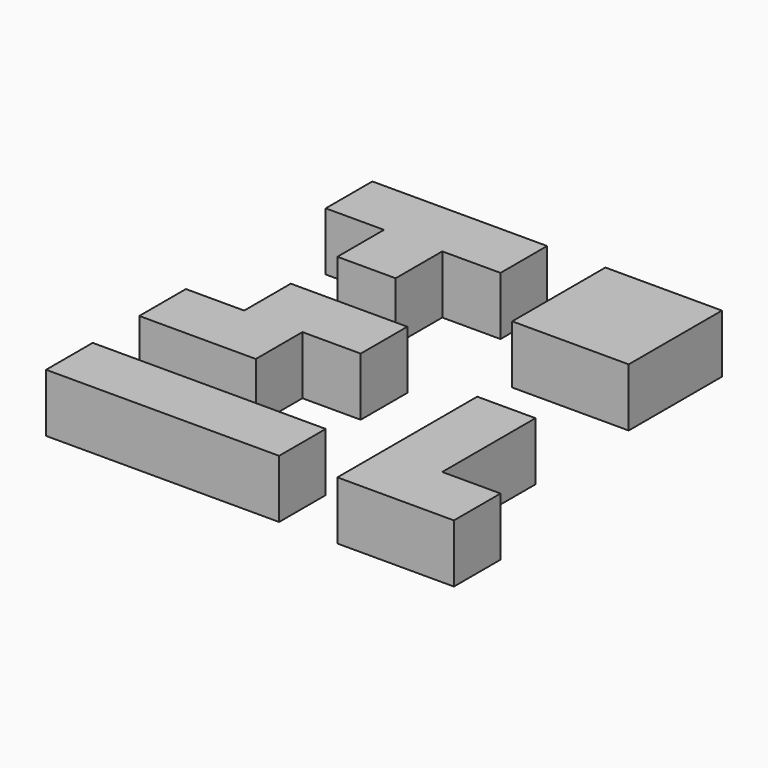
from build123d import *

# Parameters (mm, degrees)
BOX_W        = 40
BOX_H        = 10
BOX_DEPTH    = 10
BOX002_W     = 10
BOX002_H     = 10
BOX002_DEPTH = 10
BOX001_W     = 30
BOX001_H     = 10
BOX001_DEPTH = 10
BOX003_W     = 20
BOX003_H     = 20
BOX003_DEPTH = 10
BOX005_W     = 10
BOX005_H     = 10
BOX005_DEPTH = 10
BOX004_W     = 10
BOX004_H     = 30
BOX004_DEPTH = 10
BOX007_W     = 20
BOX007_H     = 10
BOX007_DEPTH = 10
BOX006_W     = 20
BOX006_H     = 10
BOX006_DEPTH = 10


with BuildPart() as box:
    # Box → Box (new body)
    with BuildSketch(Plane(origin=(0, -20, 0), x_dir=(1, 0, 0), z_dir=(0, 0, 1))):
        with Locations((20, 5)):
            Rectangle(BOX_W, BOX_H)
    extrude(amount=BOX_DEPTH)


with BuildPart() as box002:
    # Box002 → Box002 (new body)
    with BuildSketch(Plane(origin=(10, -10, 0), x_dir=(1, 0, 0), z_dir=(0, 0, 1))):
        with Locations((5, 5)):
            Rectangle(BOX002_W, BOX002_H)
    extrude(amount=BOX002_DEPTH)


with BuildPart() as fusion:
    # Box001 → Box001 (new body)
    with BuildSketch(Plane.XY):
        with Locations((15, 5)):
            Rectangle(BOX001_W, BOX001_H)
    extrude(amount=BOX001_DEPTH)

    # Fusion: union Box002
    add(box002.part)


with BuildPart() as fusion_1:
    # Fusion placement: moved
    add(fusion.part.moved(Location((0, 40, 0))))


with BuildPart() as box003:
    # Box003 → Box003 (new body)
    with BuildSketch(Plane(origin=(40, 30, 0), x_dir=(1, 0, 0), z_dir=(0, 0, 1))):
        with Locations((10, 10)):
            Rectangle(BOX003_W, BOX003_H)
    extrude(amount=BOX003_DEPTH)


with BuildPart() as box005:
    # Box005 → Box005 (new body)
    with BuildSketch(Plane(origin=(10, 0, 0), x_dir=(1, 0, 0), z_dir=(0, 0, 1))):
        with Locations((5, 5)):
            Rectangle(BOX005_W, BOX005_H)
    extrude(amount=BOX005_DEPTH)


with BuildPart() as fusion001:
    # Box004 → Box004 (new body)
    with BuildSketch(Plane.XY):
        with Locations((5, 15)):
            Rectangle(BOX004_W, BOX004_H)
    extrude(amount=BOX004_DEPTH)

    # Fusion001: union Box005
    add(box005.part)


with BuildPart() as fusion001_1:
    # Fusion001 placement: moved
    add(fusion001.part.moved(Location((50, -20, 0))))


with BuildPart() as p5_cubo2:
    # Box007 → Box007 (new body)
    with BuildSketch(Plane(origin=(10, 10, 0), x_dir=(1, 0, 0), z_dir=(0, 0, 1))):
        with Locations((10, 5)):
            Rectangle(BOX007_W, BOX007_H)
    extrude(amount=BOX007_DEPTH)


with BuildPart() as fusion002:
    # Box006 → Box006 (new body)
    with BuildSketch(Plane.XY):
        with Locations((10, 5)):
            Rectangle(BOX006_W, BOX006_H)
    extrude(amount=BOX006_DEPTH)

    # Fusion002: union P5-cubo2
    add(p5_cubo2.part)


solid = Compound([box.part, fusion_1.part, box003.part, fusion001_1.part, fusion002.part])
